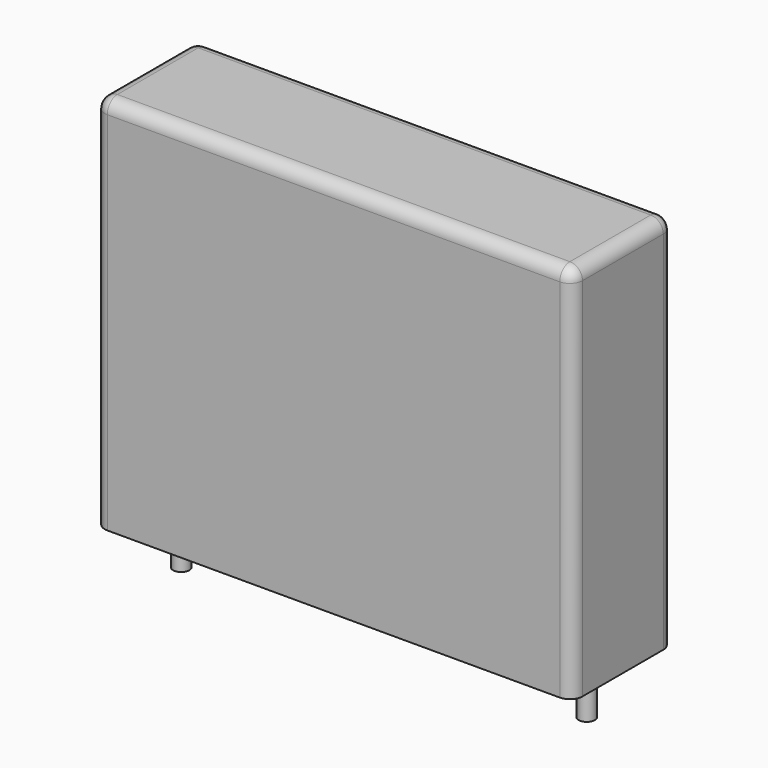
from build123d import *

# Parameters (mm, degrees)
SKETCH_W     = 26.5
SKETCH_H     = 7
PAD_DEPTH    = 21
FILLET_R     = 0.7
SKETCH001_R  = 0.45
PAD001_DEPTH = 3.2


with BuildPart() as fillet_body:
    # Sketch → Pad (new body)
    with BuildSketch(Plane.XY.offset(0.1)):
        with Locations((11.25, 0)):
            Rectangle(SKETCH_W, SKETCH_H)
    extrude(amount=PAD_DEPTH)

    # Fillet
    fillet_edges = [fillet_body.edges().sort_by_distance(p)[0] for p in [
        (-2, 0, 21.1),
        (-2, -3.5, 10.6),
        (11.25, -3.5, 21.1),
        (24.5, -3.5, 10.6),
        (24.5, 0, 21.1),
        (24.5, 3.5, 10.6),
        (11.25, 3.5, 21.1),
        (-2, 3.5, 10.6),
    ]]
    fillet(fillet_edges, radius=FILLET_R)


with BuildPart() as pad001:
    # Sketch001 → Pad001 (new body)
    with BuildSketch(Plane.XY.offset(0.5)):
        Circle(SKETCH001_R)
        with Locations((22.5, 0)):
            Circle(SKETCH001_R)
    extrude(amount=-PAD001_DEPTH)


solid = Compound([fillet_body.part, pad001.part])
